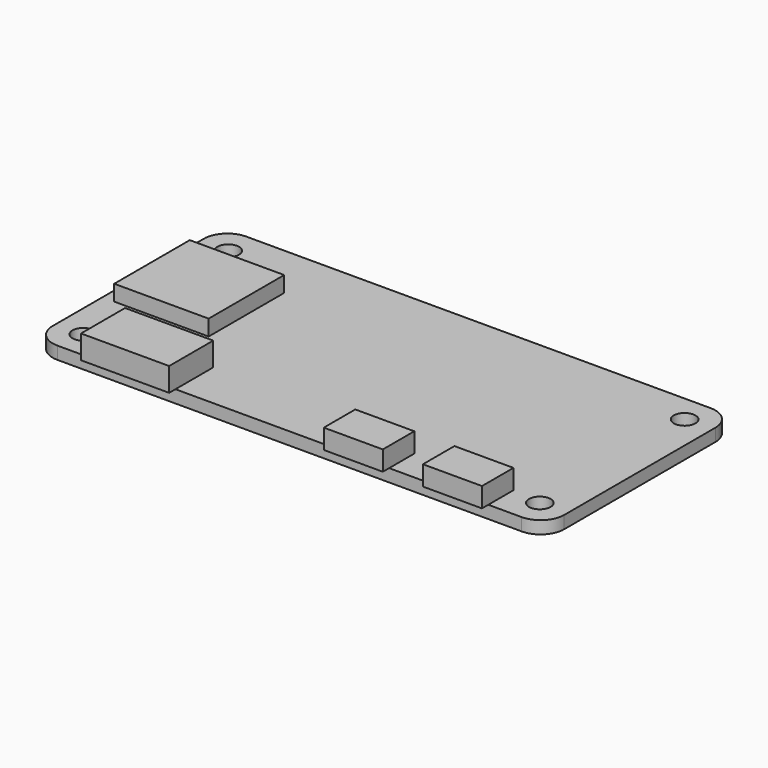
from build123d import *

# Parameters (mm, degrees)
F0_W     = 65
F0_H     = 30
F0_R     = 1.375
F1_DEPTH = 1.6
F2_R     = 3
F3_W     = 12
F3_H     = 12
F4_DEPTH = 2
F5_W     = 11.2
F5_H     = 7
F6_DEPTH = 3
F7_W     = 7.5
F7_H     = 5
F8_DEPTH = 2.5


with BuildPart() as f1:
    # F0 (on Top) → F1 (new body)
    with BuildSketch(Plane.XY):
        Rectangle(F0_W, F0_H)
        with Locations((-29, -11.5)):
            Circle(F0_R, mode=Mode.SUBTRACT)
        with Locations((29, -11.5)):
            Circle(F0_R, mode=Mode.SUBTRACT)
        with Locations((-29, 11.5)):
            Circle(F0_R, mode=Mode.SUBTRACT)
        with Locations((29, 11.5)):
            Circle(F0_R, mode=Mode.SUBTRACT)
    extrude(amount=F1_DEPTH)

    # F2
    f2_edges = [f1.edges().sort_by_distance(p)[0] for p in [
        (-32.5, -15, 0.8),
        (-32.5, 15, 0.8),
        (32.5, -15, 0.8),
        (32.5, 15, 0.8),
    ]]
    fillet(f2_edges, radius=F2_R)

    # F3 (on face) → F4 (join)
    with BuildSketch(Plane.XY.offset(1.6)):
        with Locations((-25, 1.9)):
            Rectangle(F3_W, F3_H)
    extrude(amount=F4_DEPTH)

    # F5 (on face) → F6 (join)
    with BuildSketch(Plane.XY.offset(1.6)):
        with Locations((-20.1, -12.5)):
            Rectangle(F5_W, F5_H)
    extrude(amount=F6_DEPTH)

    # F7 (on face) → F8 (join)
    with BuildSketch(Plane.XY.offset(1.6)):
        with Locations((8.9, -13.5)):
            Rectangle(F7_W, F7_H)
        with Locations((21.5, -13.5)):
            Rectangle(F7_W, F7_H)
    extrude(amount=F8_DEPTH)


solid = f1.part
